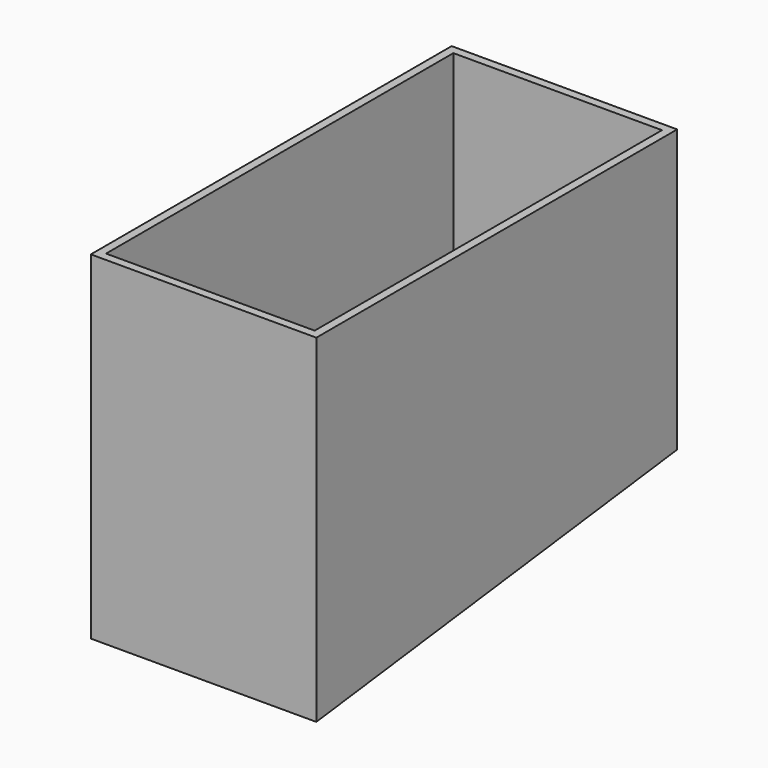
from build123d import *

# Parameters (mm, degrees)
F0_W     = 50.8
F0_H     = 76.2
F1_DEPTH = 101.6
F3_DEPTH = 50.801
F4_T     = -1.905
F5_W     = 25.4
F5_H     = 19.05
F6_DEPTH = 3.048


with BuildPart() as f1:
    # F0 (on Front) → F1 (new body)
    with BuildSketch(Plane.XZ):
        with Locations((25.4, 38.1)):
            Rectangle(F0_W, F0_H)
    extrude(amount=F1_DEPTH)

    # F2 (on face) → F3 (cut, through all)
    with BuildSketch(Plane.YZ.offset(50.8)):
        Polygon((-101.6, 0), (0, 0), (0, 12.7), align=None)
    extrude(amount=-F3_DEPTH, mode=Mode.SUBTRACT)

    # F4
    f4_openings = [f1.faces().sort_by_distance(p)[0] for p in [
        (25.4, -50.8, 76.2),
    ]]
    offset(amount=F4_T, openings=f4_openings)

    # F5 (on face) → F6 (cut)
    with BuildSketch(Plane(origin=(0, -1.563077, 12.504615), x_dir=(1, 0, 0), z_dir=(0, 0.124035, -0.992278))):
        with Locations((25.4, 88.750432)):
            Rectangle(F5_W, F5_H)
    extrude(amount=-F6_DEPTH, mode=Mode.SUBTRACT)


solid = f1.part
